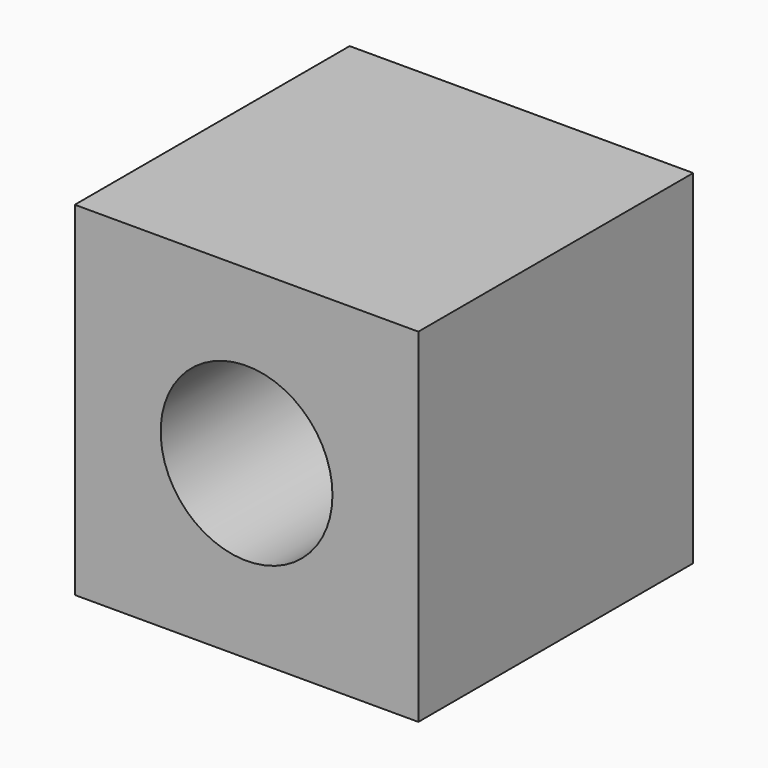
from build123d import *

# Parameters (mm, degrees)
F0_W     = 100
F0_H     = 100
F1_DEPTH = 50
F2_R     = 25
F3_DEPTH = 100.001


with BuildPart() as f1:
    # F0 (on Front) → F1 (new body, symmetric)
    with BuildSketch(Plane.XZ):
        Rectangle(F0_W, F0_H)
    extrude(amount=F1_DEPTH, both=True)

    # F2 (on face) → F3 (cut, through all)
    with BuildSketch(Plane.XZ.offset(50)):
        Circle(F2_R)
    extrude(amount=-F3_DEPTH, mode=Mode.SUBTRACT)


solid = f1.part
